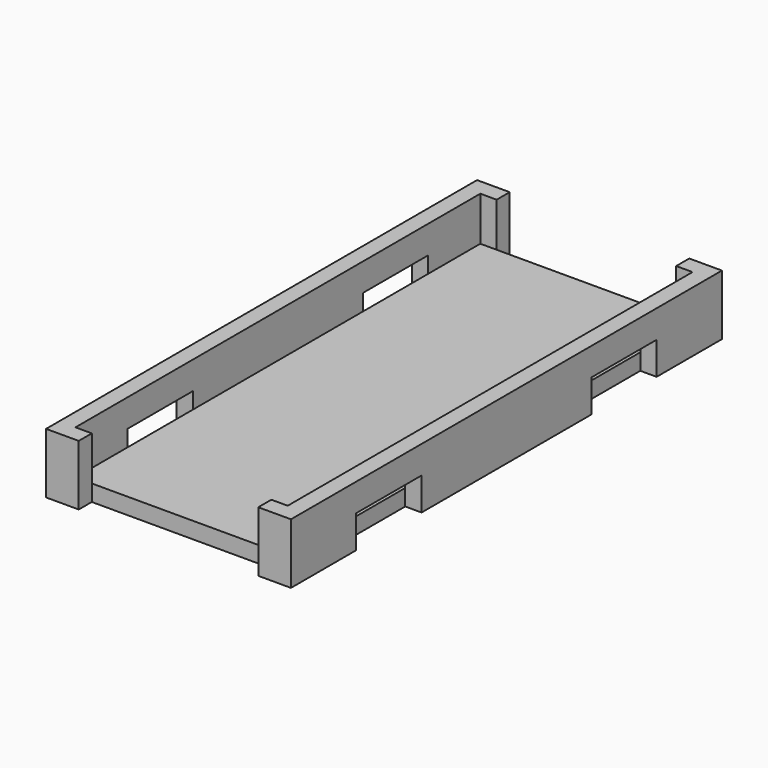
from build123d import *

# Parameters (mm, degrees)
BOX012_W     = 1
BOX012_H     = 5
BOX012_DEPTH = 2
BOX011_W     = 1
BOX011_H     = 5
BOX011_DEPTH = 2
BOX010_W     = 1
BOX010_H     = 5
BOX010_DEPTH = 2
BOX013_W     = 1
BOX013_H     = 5
BOX013_DEPTH = 2
BOX001_W     = 1
BOX001_H     = 33
BOX001_DEPTH = 3.7
BOX002_W     = 1
BOX002_H     = 33
BOX002_DEPTH = 3.7
BOX004_W     = 1
BOX004_H     = 1
BOX004_DEPTH = 3.7
BOX003_W     = 1
BOX003_H     = 1
BOX003_DEPTH = 3.7
BOX005_W     = 1
BOX005_H     = 1
BOX005_DEPTH = 3.7
BOX006_W     = 1
BOX006_H     = 1
BOX006_DEPTH = 3.7
BOX_W        = 13
BOX_H        = 31
BOX_DEPTH    = 1


with BuildPart() as cube012:
    # Box012 → Box012 (new body)
    with BuildSketch(Plane(origin=(-1, 4, 0), x_dir=(1, 0, 0), z_dir=(0, 0, 1))):
        with Locations((0.5, 2.5)):
            Rectangle(BOX012_W, BOX012_H)
    extrude(amount=BOX012_DEPTH)


with BuildPart() as cube011:
    # Box011 → Box011 (new body)
    with BuildSketch(Plane(origin=(13, 22, 0), x_dir=(1, 0, 0), z_dir=(0, 0, 1))):
        with Locations((0.5, 2.5)):
            Rectangle(BOX011_W, BOX011_H)
    extrude(amount=BOX011_DEPTH)


with BuildPart() as cube010:
    # Box010 → Box010 (new body)
    with BuildSketch(Plane(origin=(13, 4, 0), x_dir=(1, 0, 0), z_dir=(0, 0, 1))):
        with Locations((0.5, 2.5)):
            Rectangle(BOX010_W, BOX010_H)
    extrude(amount=BOX010_DEPTH)


with BuildPart() as fusion:
    # Box013 → Box013 (new body)
    with BuildSketch(Plane(origin=(-1, 22, 0), x_dir=(1, 0, 0), z_dir=(0, 0, 1))):
        with Locations((0.5, 2.5)):
            Rectangle(BOX013_W, BOX013_H)
    extrude(amount=BOX013_DEPTH)

    # Fusion: union Cube012, Cube011, Cube010
    add(cube012.part)
    add(cube011.part)
    add(cube010.part)


with BuildPart() as cube001:
    # Box001 → Box001 (new body)
    with BuildSketch(Plane(origin=(-1, -1, 0), x_dir=(1, 0, 0), z_dir=(0, 0, 1))):
        with Locations((0.5, 16.5)):
            Rectangle(BOX001_W, BOX001_H)
    extrude(amount=BOX001_DEPTH)


with BuildPart() as cube002:
    # Box002 → Box002 (new body)
    with BuildSketch(Plane(origin=(13, -1, 0), x_dir=(1, 0, 0), z_dir=(0, 0, 1))):
        with Locations((0.5, 16.5)):
            Rectangle(BOX002_W, BOX002_H)
    extrude(amount=BOX002_DEPTH)


with BuildPart() as cube004:
    # Box004 → Box004 (new body)
    with BuildSketch(Plane(origin=(12, -1, 0), x_dir=(1, 0, 0), z_dir=(0, 0, 1))):
        with Locations((0.5, 0.5)):
            Rectangle(BOX004_W, BOX004_H)
    extrude(amount=BOX004_DEPTH)


with BuildPart() as cube003:
    # Box003 → Box003 (new body)
    with BuildSketch(Plane(origin=(0, -1, 0), x_dir=(1, 0, 0), z_dir=(0, 0, 1))):
        with Locations((0.5, 0.5)):
            Rectangle(BOX003_W, BOX003_H)
    extrude(amount=BOX003_DEPTH)


with BuildPart() as cube005:
    # Box005 → Box005 (new body)
    with BuildSketch(Plane(origin=(0, 31, 0), x_dir=(1, 0, 0), z_dir=(0, 0, 1))):
        with Locations((0.5, 0.5)):
            Rectangle(BOX005_W, BOX005_H)
    extrude(amount=BOX005_DEPTH)


with BuildPart() as cube006:
    # Box006 → Box006 (new body)
    with BuildSketch(Plane(origin=(12, 31, 0), x_dir=(1, 0, 0), z_dir=(0, 0, 1))):
        with Locations((0.5, 0.5)):
            Rectangle(BOX006_W, BOX006_H)
    extrude(amount=BOX006_DEPTH)


with BuildPart() as inner:
    # Box → Box (new body)
    with BuildSketch(Plane.XY):
        with Locations((6.5, 15.5)):
            Rectangle(BOX_W, BOX_H)
    extrude(amount=BOX_DEPTH)

    # Fusion001: union Cube001, Cube002, Cube004, Cube003, Cube005, Cube006
    add(cube001.part)
    add(cube002.part)
    add(cube004.part)
    add(cube003.part)
    add(cube005.part)
    add(cube006.part)

    # Cut: cut Fusion
    add(fusion.part, mode=Mode.SUBTRACT)


solid = inner.part
